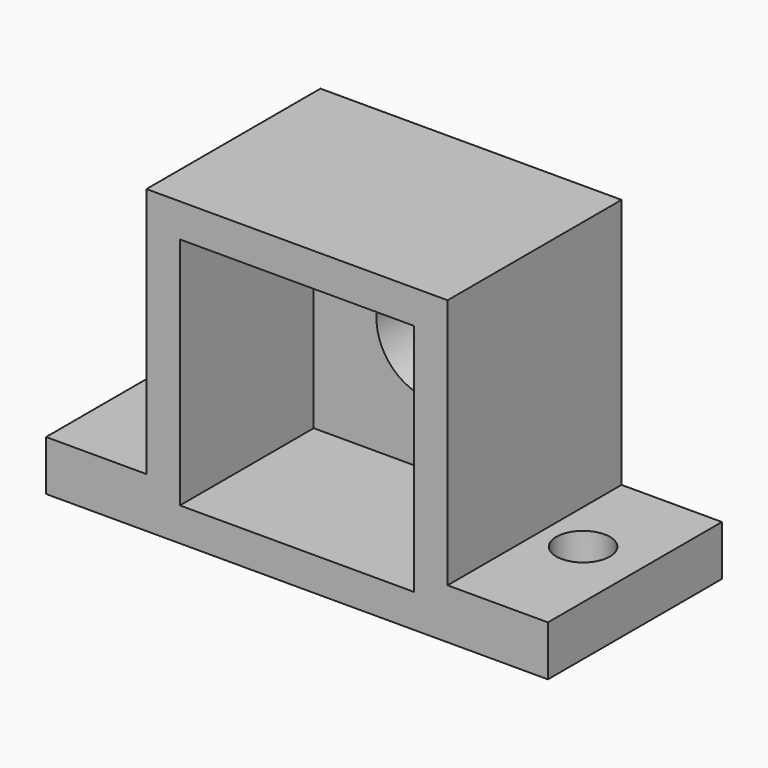
from build123d import *

# Parameters (mm, degrees)
SKETCH_R     = 3.25
PAD_DEPTH    = 3
SKETCH001_W  = 14
SKETCH001_H  = 14
PAD001_DEPTH = 13
SKETCH002_R  = 1.6
POCKET_DEPTH = 18.001


with BuildPart() as part:
    # Sketch → Pad (new body)
    with BuildSketch(Plane.XZ):
        Polygon((0, 0), (30, 0), (30, 3), (24, 3), (24, 18), (6, 18), (6, 3), (0, 3), align=None)
        with Locations((15, 9)):
            Circle(SKETCH_R, mode=Mode.SUBTRACT)
    extrude(amount=PAD_DEPTH)

    # Sketch001 → Pad001 (join)
    with BuildSketch(Plane.XZ):
        Polygon((0, 0), (0, 3), (6, 3), (6, 18), (24, 18), (24, 3), (30, 3), (30, 0), align=None)
        with Locations((15, 9)):
            Rectangle(SKETCH001_W, SKETCH001_H, mode=Mode.SUBTRACT)
    extrude(amount=PAD001_DEPTH)

    # Sketch002 → Pocket (cut, through all)
    with BuildSketch(Plane.XY):
        with Locations((3, -6)):
            Circle(SKETCH002_R)
        with Locations((26.5, -6)):
            Circle(SKETCH002_R)
    extrude(amount=POCKET_DEPTH, mode=Mode.SUBTRACT)


solid = part.part
